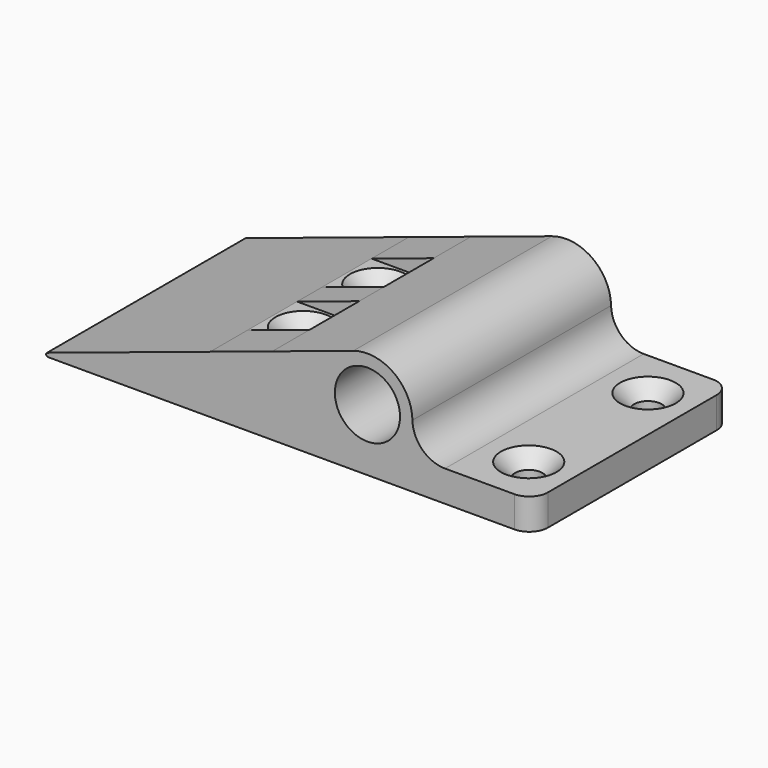
from build123d import *

# Parameters (mm, degrees)
F3_DEPTH        = 20
F4_R            = 5.25
F5_R            = 0.3
F7_D            = 4.4
F7_CSINK_D      = 8.96
F7_CSINK_ANGLE  = 90
F8_DEPTH        = 12.5
F10_D           = 4.4
F10_CSINK_D     = 8.96
F10_CSINK_ANGLE = 90
F11_DEPTH       = 2.5
F12_R           = 3


with BuildPart() as f3:
    # F2 (on Front) → F3 (new body, symmetric)
    with BuildSketch(Plane.XZ):
        with BuildLine():
            ThreePointArc((-2.276188083, 14.2404423798), (-6.1249331198, 3.4778868396), (5.25, 2.357022604))
            ThreePointArc((5.25, 2.357022604), (6.7314560089, 4.6644402004), (7.25, 7.357022604))
            ThreePointArc((7.25, 7.357022604), (4.2461827798, 13.2334527959), (-2.276188083, 14.2404423798))
        make_face()
        with BuildLine():
            ThreePointArc((5.25, 7.357022604), (4.2406721496, 4.261994378), (1.6007810594, 2.357022604))
            ThreePointArc((1.6007810594, 2.357022604), (-4.2406721496, 10.4520508299), (5.25, 7.357022604))
        make_face(mode=Mode.SUBTRACT)
        with BuildLine():
            Line((26.6666666667, -2.642977396), (26.6666666667, 2.357022604))
            Line((26.6666666667, 2.357022604), (7.25, 2.357022604))
            Line((7.25, 2.357022604), (5.25, 2.357022604))
            ThreePointArc((5.25, 2.357022604), (-6.1249331198, 3.4778868396), (-2.276188083, 14.2404423798))
            Line((-2.276188083, 14.2404423798), (-15.3333333333, 9.9227457429))
            Line((-15.3333333333, 9.9227457429), (-15.3333333333, 6.6159764958))
            Line((-15.3333333333, 6.6159764958), (-25.3333333333, 6.6159764958))
            Line((-25.3333333333, 6.6159764958), (-25.3333333333, -2.642977396))
            Line((-25.3333333333, -2.642977396), (26.6666666667, -2.642977396))
        make_face()
        Polygon((-53.3333333333, -2.642977396), (-25.3333333333, -2.642977396), (-25.3333333333, 6.6159764958), align=None)
        Polygon((-15.3333333333, 9.9227457429), (-25.3333333333, 6.6159764958), (-15.3333333333, 6.6159764958), align=None)
    extrude(amount=F3_DEPTH, both=True)

    # F4
    f4_edges = [f3.edges().sort_by_distance(p)[0] for p in [
        (5.25, 0, 2.357023),
    ]]
    fillet(f4_edges, radius=F4_R)

    # F5
    f5_edges = [f3.edges().sort_by_distance(p)[0] for p in [
        (-53.333333, 0, -2.642977),
    ]]
    fillet(f5_edges, radius=F5_R)

    # F7 (through all)
    with Locations(Plane.XY.offset(2.357022604)):
        with Locations((19.5820832083, 12), (19.5820832083, -12)):
            CounterSinkHole(F7_D / 2, F7_CSINK_D / 2, counter_sink_angle=F7_CSINK_ANGLE)

    # F2 (on Front) → F8 (cut, symmetric)
    with BuildSketch(Plane.XZ):
        Polygon((-15.3333333333, 9.9227457429), (-25.3333333333, 6.6159764958), (-15.3333333333, 6.6159764958), align=None)
    extrude(amount=F8_DEPTH, both=True, mode=Mode.SUBTRACT)

    # F10 (through all)
    with Locations(Plane.XY.offset(6.6159764958)):
        with Locations((-20.3333333333, -7.5), (-20.3333333333, 7.5)):
            CounterSinkHole(F10_D / 2, F10_CSINK_D / 2, counter_sink_angle=F10_CSINK_ANGLE)

    # F2 (on Front) → F11 (join, symmetric)
    with BuildSketch(Plane.XZ):
        Polygon((-15.3333333333, 9.9227457429), (-25.3333333333, 6.6159764958), (-15.3333333333, 6.6159764958), align=None)
    extrude(amount=F11_DEPTH, both=True)

    # F12
    f12_edges = [f3.edges().sort_by_distance(p)[0] for p in [
        (26.666667, -20, -0.142977),
        (26.666667, 20, -0.142977),
    ]]
    fillet(f12_edges, radius=F12_R)


solid = f3.part
